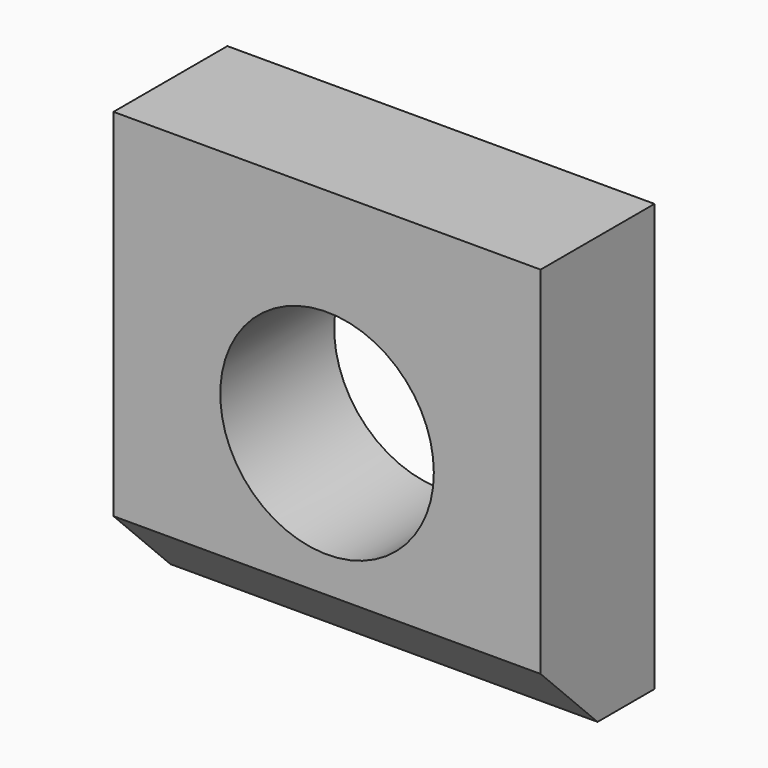
from build123d import *

# Parameters (mm, degrees)
CYLINDER_R      = 1.5
CYLINDER_DEPTH  = 10
BOX001_W        = 6
BOX001_H        = 2
BOX001_DEPTH    = 6
CHAMFER002_SIZE = 1


with BuildPart() as cylinder:
    # Cylinder → Cylinder (new body)
    with BuildSketch(Plane(origin=(10, -1, 5), x_dir=(1, 0, 0), z_dir=(0, 1, 0))):
        Circle(CYLINDER_R)
    extrude(amount=CYLINDER_DEPTH)


with BuildPart() as cut001:
    # Box001 → Box001 (new body)
    with BuildSketch(Plane(origin=(7, -1, 2), x_dir=(1, 0, 0), z_dir=(0, 0, 1))):
        with Locations((3, 1)):
            Rectangle(BOX001_W, BOX001_H)
    extrude(amount=BOX001_DEPTH)

    # Chamfer002
    chamfer002_edges = [cut001.edges().sort_by_distance(p)[0] for p in [
        (10, -1, 2),
    ]]
    chamfer(chamfer002_edges, length=CHAMFER002_SIZE)

    # Cut001: cut Cylinder
    add(cylinder.part, mode=Mode.SUBTRACT)


solid = cut001.part
